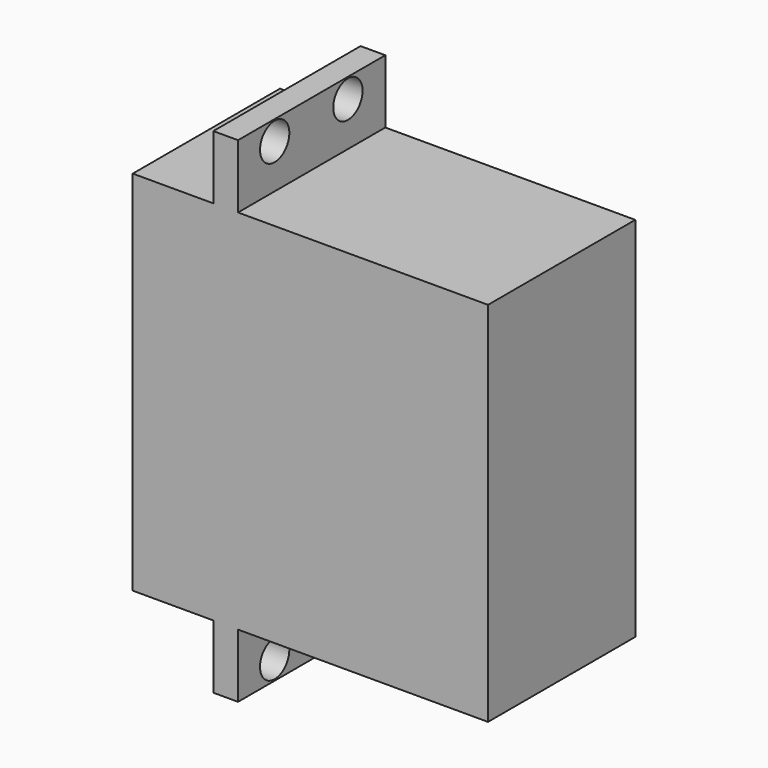
from build123d import *

# Parameters (mm, degrees)
CYLINDER178_R          = 2
CYLINDER178_DEPTH      = 20
CYLINDER177_R          = 2
CYLINDER177_DEPTH      = 20
CYLINDER175_R          = 2
CYLINDER175_DEPTH      = 20
CYLINDER176_R          = 2
CYLINDER176_DEPTH      = 20
BOX069_W               = 38.8
BOX069_H               = 40.1
BOX069_DEPTH           = 20.1
BOX084_W               = 2.7
BOX084_H               = 54
BOX084_DEPTH           = 20.1
CUT131_PLACEMENT_ANGLE = 90


with BuildPart() as cylinder178:
    # Cylinder178 → Cylinder178 (new body)
    with BuildSketch(Plane(origin=(-97.2, -71.8, 5), x_dir=(0, 0, -1), z_dir=(1, 0, 0))):
        Circle(CYLINDER178_R)
    extrude(amount=CYLINDER178_DEPTH)


with BuildPart() as cylinder177:
    # Cylinder177 → Cylinder177 (new body)
    with BuildSketch(Plane(origin=(-97.2, -71.8, 15), x_dir=(0, 0, -1), z_dir=(1, 0, 0))):
        Circle(CYLINDER177_R)
    extrude(amount=CYLINDER177_DEPTH)


with BuildPart() as cylinder175:
    # Cylinder175 → Cylinder175 (new body)
    with BuildSketch(Plane(origin=(-97.2, -22.1, 5), x_dir=(0, 0, -1), z_dir=(1, 0, 0))):
        Circle(CYLINDER175_R)
    extrude(amount=CYLINDER175_DEPTH)


with BuildPart() as cylinder176:
    # Cylinder176 → Cylinder176 (new body)
    with BuildSketch(Plane(origin=(-97.2, -22.1, 15), x_dir=(0, 0, -1), z_dir=(1, 0, 0))):
        Circle(CYLINDER176_R)
    extrude(amount=CYLINDER176_DEPTH)


with BuildPart() as box069:
    # Box069 → Box069 (new body)
    with BuildSketch(Plane(origin=(82, -93, 0), x_dir=(1, 0, 0), z_dir=(0, 0, 1))):
        with Locations((19.4, 20.05)):
            Rectangle(BOX069_W, BOX069_H)
    extrude(amount=BOX069_DEPTH)


with BuildPart() as cut131:
    # Box084 → Box084 (new body)
    with BuildSketch(Plane(origin=(90.8, -99.95, 0), x_dir=(1, 0, 0), z_dir=(0, 0, 1))):
        with Locations((1.35, 27)):
            Rectangle(BOX084_W, BOX084_H)
    extrude(amount=BOX084_DEPTH)

    # Fusion084: union Box069
    add(box069.part)


with BuildPart() as cut131_1:
    # Fusion084 placement: moved
    add(cut131.part.moved(Location((-188, 26, 0))))

    # Cut128: cut Cylinder176
    add(cylinder176.part, mode=Mode.SUBTRACT)

    # Cut129: cut Cylinder175
    add(cylinder175.part, mode=Mode.SUBTRACT)

    # Cut130: cut Cylinder177
    add(cylinder177.part, mode=Mode.SUBTRACT)

    # Cut131: cut Cylinder178
    add(cylinder178.part, mode=Mode.SUBTRACT)


with BuildPart() as cut131_2:
    # Cut131 placement: moved
    add(cut131_1.part.moved(Location((4, -98.1, -26.9))).rotate(Axis((4, -98.1, -26.9), (-1, 0, 0)), CUT131_PLACEMENT_ANGLE))


solid = cut131_2.part
